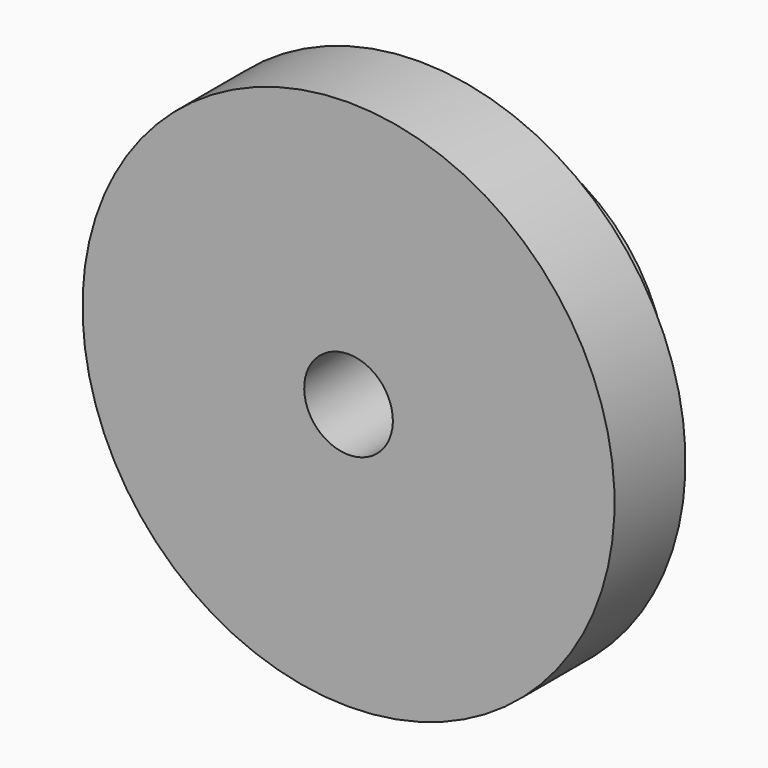
from build123d import *

# Parameters (mm, degrees)
F0_W   = 12.7
F0_H   = 12.7
F0_H_2 = 19.05


with BuildPart() as f1:
    # F0 (on Right) → F1 (revolve)
    with BuildSketch(Plane.YZ):
        with Locations((-57.0947776475, 8.6765019817)):
            Rectangle(F0_W, F0_H)
        with Locations((-57.0947776475, -7.1984980183)):
            Rectangle(F0_W, F0_H_2)
        with Locations((-44.3947776475, -7.1984980183)):
            Rectangle(F0_W, F0_H_2)
    revolve(axis=Axis((0, -46.2559854154, -23.0734980183), (0, 1, 0)))


solid = f1.part
